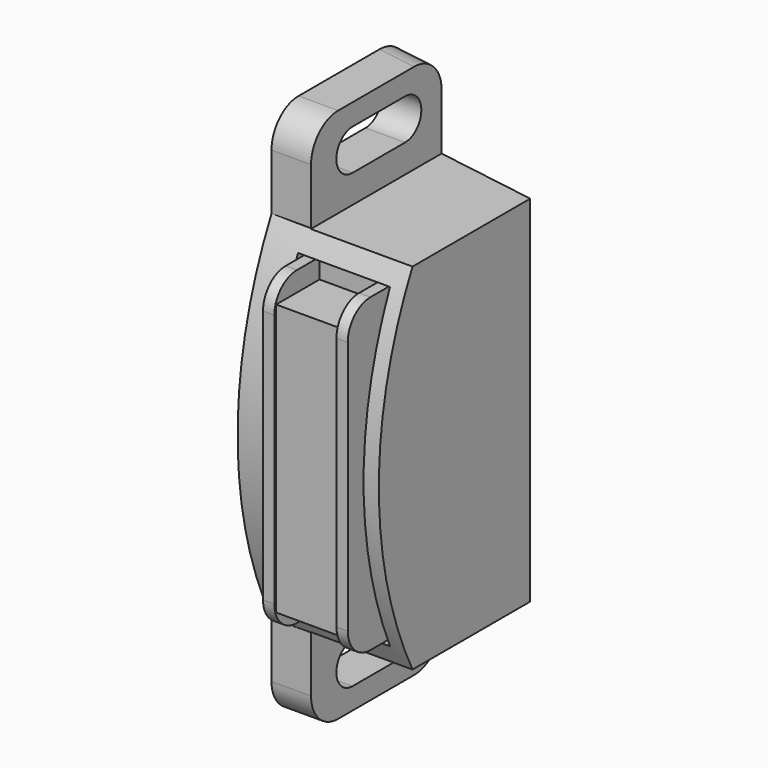
from build123d import *

# Parameters (mm, degrees)
SKETCH_W        = 20
SKETCH_H        = 47.4
PAD_DEPTH       = 12.5
POCKET_DEPTH    = 12.501
POCKET001_DEPTH = 47.401
SKETCH003_W     = 20
SKETCH003_H     = 8
POCKET002_DEPTH = 9
SKETCH004_W     = 28
SKETCH004_H     = 8.15
POCKET003_DEPTH = 3.751
SKETCH005_W     = 27.5
SKETCH005_H     = 1
PAD001_DEPTH    = 5
SKETCH006_W     = 24
SKETCH006_H     = 5.5
PAD002_DEPTH    = 4.8
FILLET_R        = 2.5
FILLET001_R     = 3
POCKET004_DEPTH = 3.501


with BuildPart() as part:
    # Sketch → Pad (new body)
    with BuildSketch(Plane.YZ):
        with Locations((-2.5, 0)):
            Rectangle(SKETCH_W, SKETCH_H)
    extrude(amount=PAD_DEPTH)

    # Sketch001 (on Face6 of Pad) → Pocket (cut, through all)
    with BuildSketch(Plane.YZ.offset(12.5)):
        with BuildLine():
            Line((-7.5, 23.7), (-7.5, 15.75))
            ThreePointArc((-7.5, 15.75), (-11.25, 0), (-7.5, -15.75))
            Line((-7.5, -15.75), (-7.5, -23.7))
            Line((-7.5, -23.7), (-12.5, -23.7))
            Line((-12.5, -23.7), (-12.5, 23.7))
            Line((-12.5, 23.7), (-7.5, 23.7))
        make_face()
    extrude(amount=-POCKET_DEPTH, mode=Mode.SUBTRACT)

    # Sketch002 (on Face6 of Pocket) → Pocket001 (cut, through all)
    with BuildSketch(Plane.YX.offset(23.7)):
        Polygon((7.5, 0), (7.5, 12.5), (5.5, 12.5), align=None)
    extrude(amount=-POCKET001_DEPTH, mode=Mode.SUBTRACT)

    # Sketch003 (on Face4 of Pocket001) → Pocket002 (cut)
    with BuildSketch(Plane.YZ.offset(12.5)):
        with Locations((-2.5, 19.7)):
            Rectangle(SKETCH003_W, SKETCH003_H)
        with Locations((-2.5, -19.7)):
            Rectangle(SKETCH003_W, SKETCH003_H)
    extrude(amount=-POCKET002_DEPTH, mode=Mode.SUBTRACT)

    # Sketch004 (on Face3 of Pocket002) → Pocket003 (cut, through all)
    with BuildSketch(Plane(origin=(0, -7.5, 0), x_dir=(0, 0, -1), z_dir=(0, -1, 0))):
        with Locations((0, 7.075)):
            Rectangle(SKETCH004_W, SKETCH004_H)
    extrude(amount=POCKET003_DEPTH, mode=Mode.SUBTRACT)

    # Sketch005 (on Face17 of Pocket003) → Pad001 (join)
    with BuildSketch(Plane(origin=(0, -7.5, 0), x_dir=(0, 0, -1), z_dir=(0, -1, 0))):
        with Locations((0, 10.25)):
            Rectangle(SKETCH005_W, SKETCH005_H)
        with Locations((0, 3.75)):
            Rectangle(SKETCH005_W, SKETCH005_H)
    extrude(amount=PAD001_DEPTH)

    # Sketch006 (on Face17 of Pad001) → Pad002 (join)
    with BuildSketch(Plane(origin=(0, -7.5, 0), x_dir=(0, 0, -1), z_dir=(0, -1, 0))):
        with Locations((0, 7)):
            Rectangle(SKETCH006_W, SKETCH006_H)
    extrude(amount=PAD002_DEPTH)

    # Fillet
    fillet_edges = [part.edges().sort_by_distance(p)[0] for p in [
        (10.25, -12.5, 13.75),
        (3.75, -12.5, 13.75),
        (10.25, -12.5, -13.75),
        (3.75, -12.5, -13.75),
    ]]
    fillet(fillet_edges, radius=FILLET_R)

    # Fillet001
    fillet001_edges = [part.edges().sort_by_distance(p)[0] for p in [
        (1.75, -7.5, 23.7),
        (1.75, 7.22, 23.7),
        (1.75, 7.22, -23.7),
        (1.75, -7.5, -23.7),
    ]]
    fillet(fillet001_edges, radius=FILLET001_R)

    # Sketch007 (on Face12 of Fillet001) → Pocket004 (cut, through all)
    with BuildSketch(Plane.YZ.offset(3.5)):
        with BuildLine():
            ThreePointArc((-2.9, 21.8), (-4.7, 20), (-2.9, 18.2))
            Line((-2.9, 18.2), (2.9, 18.2))
            ThreePointArc((2.9, 18.2), (4.7, 20), (2.9, 21.8))
            Line((-2.9, 21.8), (2.9, 21.8))
        make_face()
        with BuildLine():
            ThreePointArc((-2.9, -18.2), (-4.7, -20), (-2.9, -21.8))
            Line((-2.9, -21.8), (2.9, -21.8))
            ThreePointArc((2.9, -21.8), (4.7, -20), (2.9, -18.2))
            Line((-2.9, -18.2), (2.9, -18.2))
        make_face()
    extrude(amount=-POCKET004_DEPTH, mode=Mode.SUBTRACT)


solid = part.part
